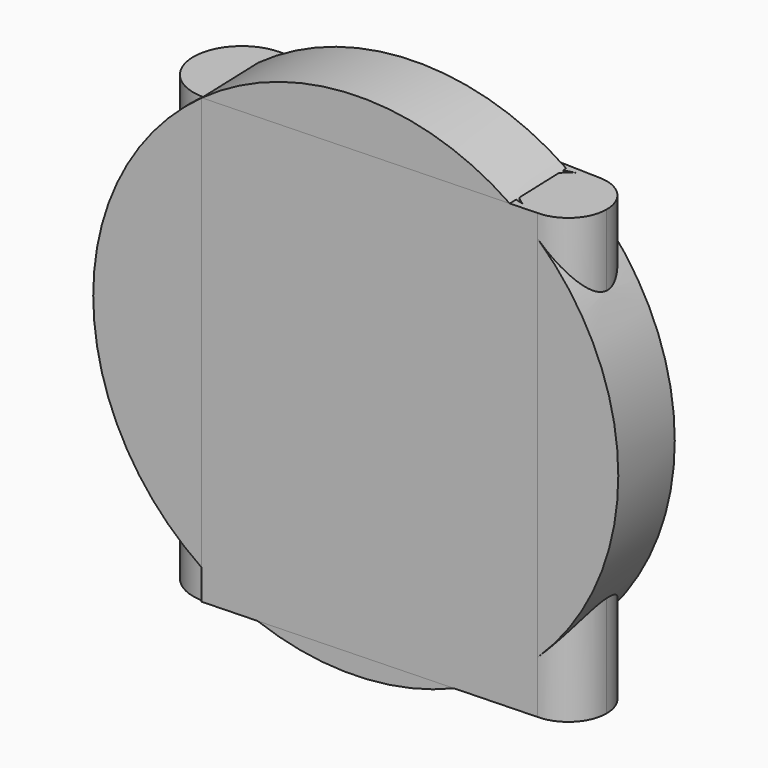
from build123d import *

# Parameters (mm, degrees)
F1_DEPTH = 152.4
F2_R     = 87.7285820259
F3_DEPTH = 25.4


with BuildPart() as f1:
    # F0 (on Top) → F1 (new body)
    with BuildSketch(Plane.XY):
        with BuildLine():
            ThreePointArc((4.3483612884, -16.0341400475), (13.1955019604, -10.0935930654), (16.6133046971, 0))
            ThreePointArc((16.6133046971, 0), (14.3717652499, 8.3339220395), (8.2520234436, 14.4189459408))
            Line((8.2520234436, 14.4189459408), (0, 16.6133046971))
            ThreePointArc((0, 16.6133046971), (-16.4678770205, -2.1933808143), (4.3483612884, -16.0341400475))
        make_face()
        with BuildLine():
            ThreePointArc((8.2520234436, 14.4189459408), (14.3717652499, 8.3339220395), (16.6133046971, 0))
            ThreePointArc((16.6133046971, 0), (13.1955019604, -10.0935930654), (4.3483612884, -16.0341400475))
            Line((4.3483612884, -16.0341400475), (62.9788908632, -0.1338945288))
            Line((62.9788908632, -0.1338945288), (8.2520234436, 14.4189459408))
        make_face()
        with BuildLine():
            Line((0, 16.6133046971), (8.2520234436, 14.4189459408))
            ThreePointArc((8.2520234436, 14.4189459408), (4.7563486134, 15.9178843075), (1.0113711573, 16.5824914093))
            Line((1.0113711573, 16.5824914093), (0, 16.6133046971))
        make_face()
        with BuildLine():
            ThreePointArc((1.0113711573, 16.5824914093), (4.7563486134, 15.9178843075), (8.2520234436, 14.4189459408))
            Line((8.2520234436, 14.4189459408), (62.9788908632, -0.1338945288))
            Line((62.9788908632, -0.1338945288), (105.4673896361, 11.3887297271))
            ThreePointArc((105.4673896361, 11.3887297271), (108.6807109667, 12.7368450388), (112.1348664165, 13.1969091614))
            Line((112.1348664165, 13.1969091614), (1.0113711573, 16.5824914093))
        make_face()
        with BuildLine():
            Line((62.9788908632, -0.1338945288), (4.3483612884, -16.0341400475))
            Line((4.3483612884, -16.0341400475), (0, -17.2133893668))
            Line((0, -17.2133893668), (112.1348664165, -13.2053364746))
            Line((112.1348664165, -13.2053364746), (112.1030305721, -13.1968707614))
            ThreePointArc((112.1030305721, -13.1968707614), (108.7434350674, -12.7536898511), (105.6074566347, -11.469582946))
            Line((105.6074566347, -11.469582946), (62.9788908632, -0.1338945288))
        make_face()
        with BuildLine():
            Line((0, 16.6133046971), (1.0113711573, 16.5824914093))
            ThreePointArc((1.0113711573, 16.5824914093), (0.5059202201, 16.6055995883), (0, 16.6133046971))
        make_face()
        with BuildLine():
            Line((105.4673896361, 11.3887297271), (112.1348664165, 13.1969091614))
            ThreePointArc((112.1348664165, 13.1969091614), (108.6807109667, 12.7368450388), (105.4673896361, 11.3887297271))
        make_face()
        with BuildLine():
            ThreePointArc((125.3317755778, 0), (121.4664903752, 9.3316239587), (112.1348664165, 13.1969091614))
            Line((112.1348664165, 13.1969091614), (105.4673896361, 11.3887297271))
            ThreePointArc((105.4673896361, 11.3887297271), (98.9382050049, -0.0808640945), (105.6074566347, -11.469582946))
            Line((105.6074566347, -11.469582946), (112.1030305721, -13.1968707614))
            ThreePointArc((112.1030305721, -13.1968707614), (121.455227908, -9.3428728494), (125.3317755778, 0))
        make_face()
        with BuildLine():
            Line((112.1030305721, -13.1968707614), (105.6074566347, -11.469582946))
            ThreePointArc((105.6074566347, -11.469582946), (108.7434350674, -12.7536898511), (112.1030305721, -13.1968707614))
        make_face()
    extrude(amount=F1_DEPTH)

    # F2 (on face) → F3 (join)
    with BuildSketch(Plane(origin=(0.6144756506, -17.1914260739, 0), x_dir=(0.9993618252, 0.0357203355, 0), z_dir=(0.0357203355, -0.9993618252, 0))):
        with Locations((50.8590377867, 81.3547074795)):
            Circle(F2_R)
    extrude(amount=-F3_DEPTH)


solid = f1.part
